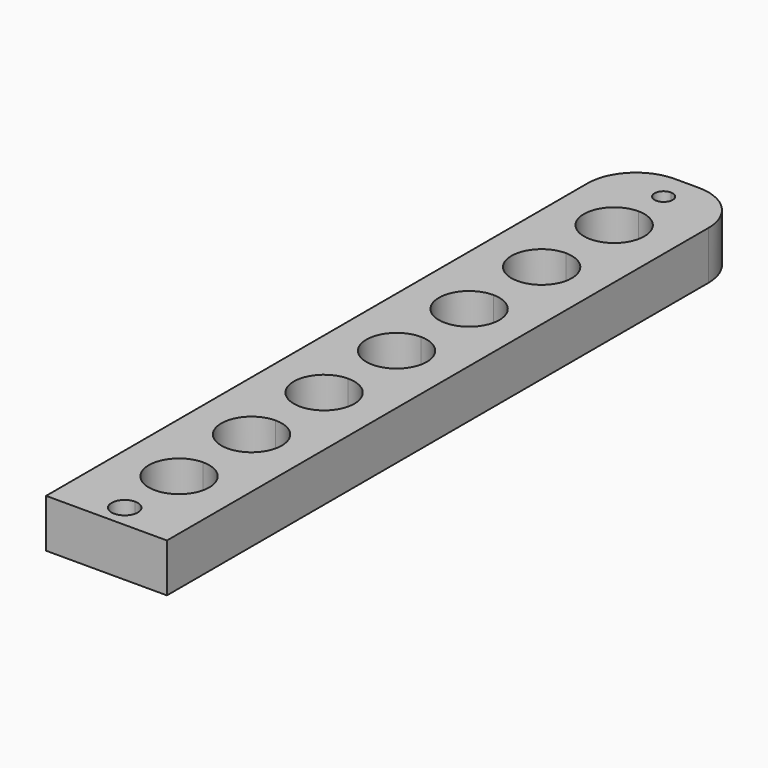
from build123d import *

# Parameters (mm, degrees)
F1_DEPTH = 5.08
F2_R     = 5.08


with BuildPart() as f1:
    # F0 (on Top) → F1 (new body)
    with BuildSketch(Plane.XY):
        with BuildLine():
            Line((25.277688, 30.232569), (18.927688, 30.232569))
            Line((18.927688, 30.232569), (18.927688, -45.967431))
            Line((18.927688, -45.967431), (25.277688, -45.967431))
            Line((25.277688, -45.967431), (25.277688, -44.953016))
            ThreePointArc((25.277688, -44.953016), (23.903282, -43.57861), (25.277688, -42.204203))
            Line((25.277688, -42.204203), (25.277688, -39.617431))
            ThreePointArc((25.277688, -39.617431), (22.102688, -36.442431), (25.277688, -33.267431))
            Line((25.277688, -33.267431), (25.277688, -30.092431))
            ThreePointArc((25.277688, -30.092431), (22.102688, -26.917431), (25.277688, -23.742431))
            Line((25.277688, -23.742431), (25.277688, -20.567431))
            ThreePointArc((25.277688, -20.567431), (22.102688, -17.392431), (25.277688, -14.217431))
            Line((25.277688, -14.217431), (25.277688, -11.042431))
            ThreePointArc((25.277688, -11.042431), (22.102688, -7.867431), (25.277688, -4.692431))
            Line((25.277688, -4.692431), (25.277688, -1.517431))
            ThreePointArc((25.277688, -1.517431), (22.102688, 1.657569), (25.277688, 4.832569))
            Line((25.277688, 4.832569), (25.277688, 8.007569))
            ThreePointArc((25.277688, 8.007569), (22.102688, 11.182569), (25.277688, 14.357569))
            Line((25.277688, 14.357569), (25.277688, 17.532569))
            ThreePointArc((25.277688, 17.532569), (22.102688, 20.707569), (25.277688, 23.882569))
            Line((25.277688, 23.882569), (25.277688, 26.255571))
            ThreePointArc((25.277688, 26.255571), (24.325188, 27.208071), (25.277688, 28.160571))
            Line((25.277688, 28.160571), (25.277688, 30.232569))
        make_face()
        with BuildLine():
            Line((31.627688, 30.232569), (25.277688, 30.232569))
            Line((25.277688, 30.232569), (25.277688, 28.160571))
            ThreePointArc((25.277688, 28.160571), (25.951207, 27.88159), (26.230188, 27.208071))
            ThreePointArc((26.230188, 27.208071), (25.951207, 26.534552), (25.277688, 26.255571))
            Line((25.277688, 26.255571), (25.277688, 23.882569))
            ThreePointArc((25.277688, 23.882569), (27.522752, 22.952633), (28.452688, 20.707569))
            ThreePointArc((28.452688, 20.707569), (27.522752, 18.462505), (25.277688, 17.532569))
            Line((25.277688, 17.532569), (25.277688, 14.357569))
            ThreePointArc((25.277688, 14.357569), (27.522752, 13.427633), (28.452688, 11.182569))
            ThreePointArc((28.452688, 11.182569), (27.522752, 8.937505), (25.277688, 8.007569))
            Line((25.277688, 8.007569), (25.277688, 4.832569))
            ThreePointArc((25.277688, 4.832569), (27.522752, 3.902633), (28.452688, 1.657569))
            ThreePointArc((28.452688, 1.657569), (27.522752, -0.587495), (25.277688, -1.517431))
            Line((25.277688, -1.517431), (25.277688, -4.692431))
            ThreePointArc((25.277688, -4.692431), (27.522752, -5.622367), (28.452688, -7.867431))
            ThreePointArc((28.452688, -7.867431), (27.522752, -10.112495), (25.277688, -11.042431))
            Line((25.277688, -11.042431), (25.277688, -14.217431))
            ThreePointArc((25.277688, -14.217431), (27.522752, -15.147367), (28.452688, -17.392431))
            ThreePointArc((28.452688, -17.392431), (27.522752, -19.637495), (25.277688, -20.567431))
            Line((25.277688, -20.567431), (25.277688, -23.742431))
            ThreePointArc((25.277688, -23.742431), (27.522752, -24.672367), (28.452688, -26.917431))
            ThreePointArc((28.452688, -26.917431), (27.522752, -29.162495), (25.277688, -30.092431))
            Line((25.277688, -30.092431), (25.277688, -33.267431))
            ThreePointArc((25.277688, -33.267431), (27.522752, -34.197367), (28.452688, -36.442431))
            ThreePointArc((28.452688, -36.442431), (27.522752, -38.687495), (25.277688, -39.617431))
            Line((25.277688, -39.617431), (25.277688, -42.204203))
            ThreePointArc((25.277688, -42.204203), (26.24954, -42.606758), (26.652095, -43.57861))
            ThreePointArc((26.652095, -43.57861), (26.24954, -44.550462), (25.277688, -44.953016))
            Line((25.277688, -44.953016), (25.277688, -45.967431))
            Line((25.277688, -45.967431), (31.627688, -45.967431))
            Line((31.627688, -45.967431), (31.627688, 30.232569))
        make_face()
    extrude(amount=F1_DEPTH)

    # F2
    f2_edges = [f1.edges().sort_by_distance(p)[0] for p in [
        (31.627688, 30.232569, 2.54),
        (18.927688, 30.232569, 2.54),
    ]]
    fillet(f2_edges, radius=F2_R)


solid = f1.part
